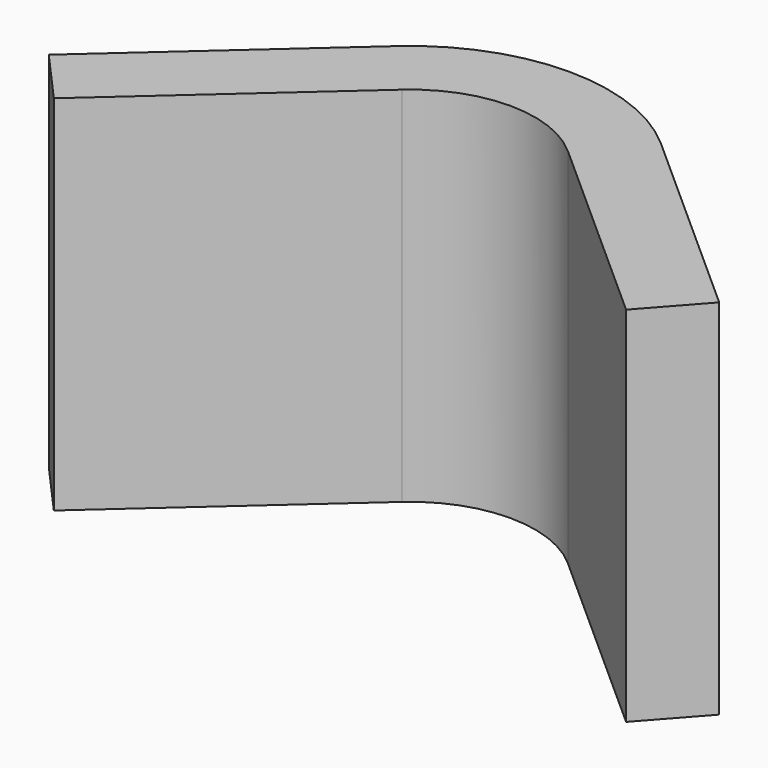
from build123d import *

# Parameters (mm, degrees)
F1_DEPTH = 101.6


with BuildPart() as f1:
    # F0 (on Top) → F1 (new body)
    with BuildSketch(Plane.XY):
        with BuildLine():
            ThreePointArc((27.543169, 0), (-9.426531, 14.088715), (-46.396231, 0))
            Line((-46.396231, 0), (27.543169, 0))
        make_face()
        with BuildLine():
            Line((27.543169, 0), (-46.396231, 0))
            Line((-46.396231, 0), (-103.270147, -50.712894))
            Line((-103.270147, -50.712894), (-89.526953, -66.125726))
            Line((-89.526953, -66.125726), (-32.653037, -15.412831))
            ThreePointArc((-32.653037, -15.412831), (-9.426531, -6.561485), (13.799974, -15.412831))
            Line((13.799974, -15.412831), (70.673891, -66.125726))
            Line((70.673891, -66.125726), (84.417085, -50.712894))
            Line((84.417085, -50.712894), (27.543169, 0))
        make_face()
    extrude(amount=F1_DEPTH)


solid = f1.part
